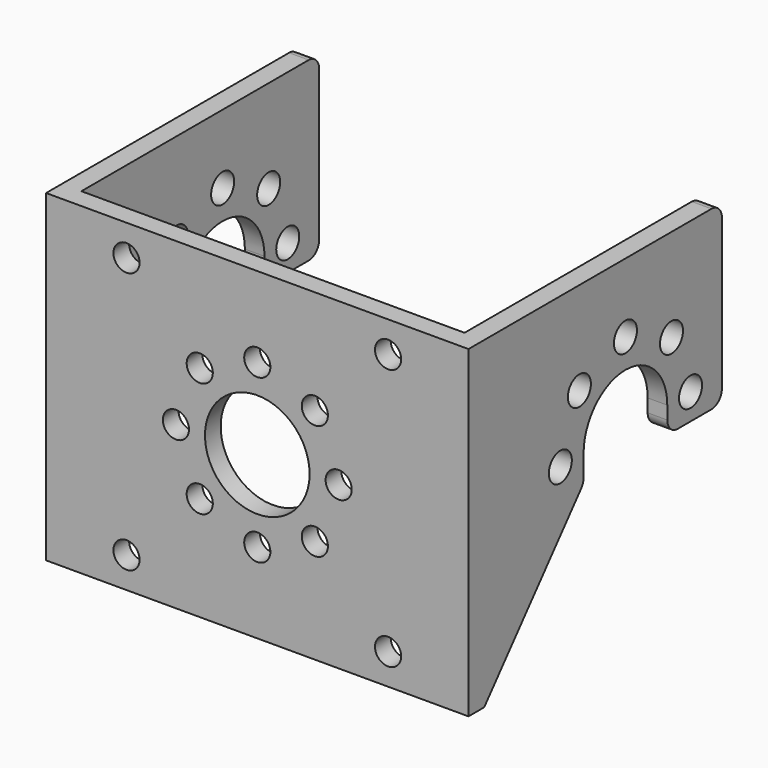
from build123d import *

# Parameters (mm, degrees)
F1_DEPTH = 30
F2_R     = 1.1
F3_DEPTH = 32.301
F4_W     = 29.3
F4_H     = 1.5
F5_DEPTH = 40
F6_W     = 5.2225396744
F6_H     = 13
F7_DEPTH = 32.301
F8_R     = 1
F8_R_2   = 4
F9_DEPTH = 1.5
F10_R    = 1


with BuildPart() as f1:
    # F0 (on Front) → F1 (new body)
    with BuildSketch(Plane.XZ):
        Polygon((0, 41.5), (0, 0), (1.5, 0), (1.5, 40), (30.8, 40), (30.8, 0), (32.3, 0), (32.3, 41.5), align=None)
    extrude(amount=F1_DEPTH)

    # F2 (on face) → F3 (cut, through all)
    with BuildSketch(Plane(origin=(0, 0, 0), x_dir=(0, -1, 0), z_dir=(-1, 0, 0))):
        with BuildLine():
            Line((19, 0), (19, 15))
            ThreePointArc((19, 15), (15, 19), (11, 15))
            Line((11, 15), (11, 0))
            Line((11, 0), (19, 0))
        make_face()
        with Locations((21.2225396744, 15)):
            Circle(F2_R)
        with Locations((19.4, 19.4)):
            Circle(F2_R)
        with Locations((15, 21.2225396744)):
            Circle(F2_R)
        with Locations((10.6, 19.4)):
            Circle(F2_R)
        with Locations((8.7774603256, 15)):
            Circle(F2_R)
    extrude(amount=-F3_DEPTH, mode=Mode.SUBTRACT)

    # F4 (on face) → F5 (join)
    with BuildSketch(Plane(origin=(0, 0, 40), x_dir=(1, 0, 0), z_dir=(0, 0, -1))):
        with Locations((16.15, 29.25)):
            Rectangle(F4_W, F4_H)
    extrude(amount=F5_DEPTH)

    # F6 (on face) → F7 (cut, through all)
    with BuildSketch(Plane(origin=(0, 0, 0), x_dir=(0, -1, 0), z_dir=(-1, 0, 0))):
        Polygon((30, 41.5), (0, 41.5), (0, 26.5), (0, 0), (5.7774603256, 0), (5.7774603256, 13), (5.7774603256, 26.5), (30, 26.5), align=None)
        with Locations((8.3887301628, 6.5)):
            Rectangle(F6_W, F6_H)
        Polygon((28.5, 1.7727272727), (19, 13), (19, 0), (30, 0), align=None)
        Polygon((30, 0), (30, 1.7727272727), (28.5, 1.7727272727), align=None)
    extrude(amount=-F7_DEPTH, mode=Mode.SUBTRACT)

    # F8 (on face) → F9 (cut, through all)
    with BuildSketch(Plane.XZ.offset(30)):
        with Locations((6.15, 24.1363636364)):
            Circle(F8_R)
        with Locations((6.15, 4.1363636364)):
            Circle(F8_R)
        with Locations((26.15, 24.1363636364)):
            Circle(F8_R)
        with Locations((26.15, 4.1363636364)):
            Circle(F8_R)
        with Locations((16.15, 14.1363636364)):
            Circle(F8_R_2)
        with Locations((20.55, 18.5363636364)):
            Circle(F8_R)
        with Locations((16.15, 20.3589033108)):
            Circle(F8_R)
        with Locations((11.75, 18.5363636364)):
            Circle(F8_R)
        with Locations((9.9274603256, 14.1363636364)):
            Circle(F8_R)
        with Locations((11.75, 9.7363636364)):
            Circle(F8_R)
        with Locations((16.15, 7.9138239619)):
            Circle(F8_R)
        with Locations((20.55, 9.7363636364)):
            Circle(F8_R)
        with Locations((22.3725396744, 14.1363636364)):
            Circle(F8_R)
    extrude(amount=-F9_DEPTH, mode=Mode.SUBTRACT)

    # F10
    f10_edges = [f1.edges().sort_by_distance(p)[0] for p in [
        (0.75, -5.77746, 13),
        (31.55, -5.77746, 13),
        (0.75, -19, 13),
        (31.55, -19, 13),
        (0.75, -11, 13),
        (31.55, -11, 13),
        (31.55, -5.77746, 26.5),
        (0.75, -5.77746, 26.5),
    ]]
    fillet(f10_edges, radius=F10_R)


solid = f1.part
